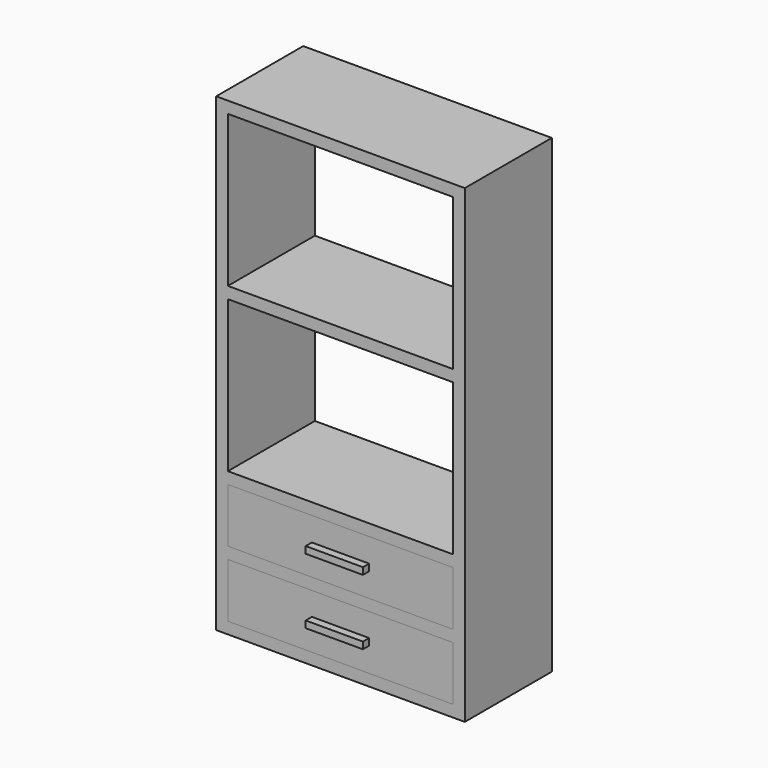
from build123d import *

# Parameters (mm, degrees)
F0_W     = 406.4
F0_H     = 768.35
F0_W_2   = 368.3
F0_H_2   = 19.05
F1_DEPTH = 177.8
F2_W     = 368.3
F2_H     = 88.9
F3_DEPTH = 19.05
F4_W     = 93.574822
F4_H     = 11.115434
F4_H_2   = 11.115435
F5_DEPTH = 12.7
F6_W     = 368.3
F6_H     = 196.85
F7_DEPTH = 6.35


with BuildPart() as f1:
    # F0 (on Front) → F1 (new body)
    with BuildSketch(Plane.XZ):
        Rectangle(F0_W, F0_H)
        Polygon((-184.15, 117.475), (-184.15, 365.125), (184.15, 365.125), (184.15, 117.475), (184.15, 98.425), (184.15, -149.225), (184.15, -168.275), (184.15, -257.175), (184.15, -276.225), (184.15, -365.125), (-184.15, -365.125), (-184.15, -276.225), (-184.15, -257.175), (-184.15, -168.275), (-184.15, -149.225), (-184.15, 98.425), align=None, mode=Mode.SUBTRACT)
        with Locations((0, 107.95)):
            Rectangle(F0_W_2, F0_H_2)
        with Locations((0, -158.75)):
            Rectangle(F0_W_2, F0_H_2)
        with Locations((0, -266.7)):
            Rectangle(F0_W_2, F0_H_2)
    extrude(amount=F1_DEPTH)

    # F6 (on face) → F7 (join)
    with BuildSketch(Plane(origin=(0, 0, 0), x_dir=(-1, 0, 0), z_dir=(0, 1, 0))):
        with Locations((0, -266.7)):
            Rectangle(F6_W, F6_H)
    extrude(amount=-F7_DEPTH)


with BuildPart() as f3:
    # F2 (on face) → F3 (new body)
    with BuildSketch(Plane.XZ.offset(177.8)):
        with Locations((0, -212.725)):
            Rectangle(F2_W, F2_H)
        with Locations((0, -320.675)):
            Rectangle(F2_W, F2_H)
    extrude(amount=-F3_DEPTH)

    # F4 (on face) → F5 (join)
    with BuildSketch(Plane.XZ.offset(177.8)):
        with Locations((0, -212.725)):
            Rectangle(F4_W, F4_H)
        with Locations((0, -319.8124)):
            Rectangle(F4_W, F4_H_2)
    extrude(amount=F5_DEPTH)


solid = Compound([f1.part, f3.part])
